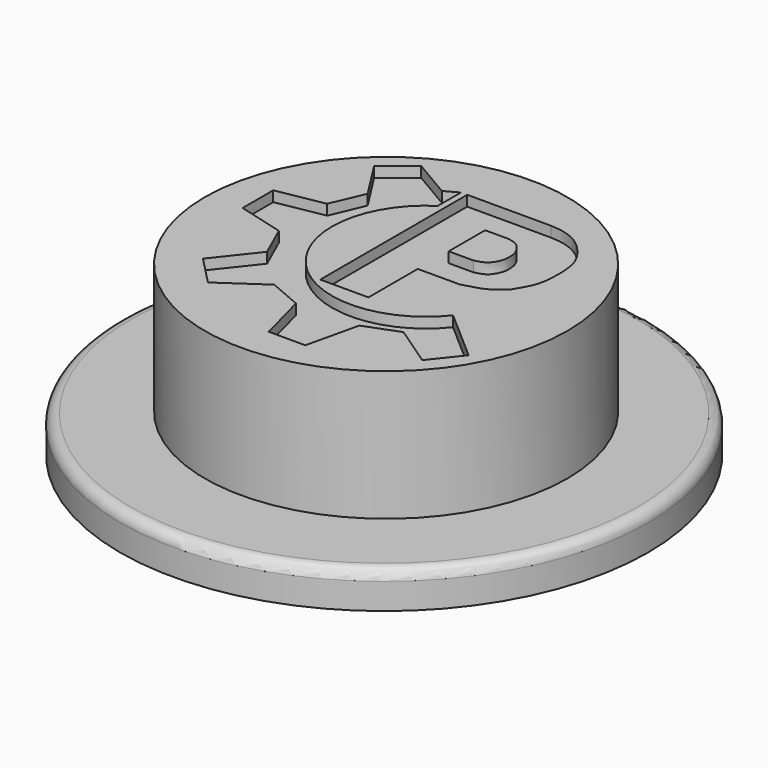
from build123d import *

# Parameters (mm, degrees)
F0_R     = 32.004
F1_DEPTH = 4.445
F2_R     = 21.971
F3_DEPTH = 15.748
F4_R     = 1.27
F6_DEPTH = 1.27
F8_DEPTH = 0.508


with BuildPart() as f1:
    # F0 (on Top) → F1 (new body)
    with BuildSketch(Plane.XY):
        with Locations((0.0734815403, -0.3912560351)):
            Circle(F0_R)
    extrude(amount=F1_DEPTH)

    # F2 (on face) → F3 (join)
    with BuildSketch(Plane.XY.offset(4.445)):
        Circle(F2_R)
    extrude(amount=F3_DEPTH)

    # F4
    f4_edges = [f1.edges().sort_by_distance(p)[0] for p in [
        (-31.930518, -0.391256, 4.445),
    ]]
    fillet(f4_edges, radius=F4_R)

    # F5 (on face) → F6 (cut)
    with BuildSketch(Plane.XY.offset(20.193)):
        with BuildLine():
            ThreePointArc((11.5169007331, -4.2504528537), (-5.8335664103, -4.8630391768), (-3.625406418, 12.3572396114))
            Line((-3.625406418, 12.3572396114), (-3.625406418, 15.8741623163))
            Line((-3.625406418, 15.8741623163), (-5.2373292856, 14.9949323386))
            Line((-5.2373292856, 14.9949323386), (-9.9754063413, 17.78))
            Line((-9.9754063413, 17.78), (-13.4434830397, 14.9949323386))
            Line((-13.4434830397, 14.9949323386), (-10.3661753237, 10.1591628045))
            Line((-10.3661753237, 10.1591628045), (-12.0757911354, 6.153778173))
            Line((-12.0757911354, 6.153778173), (-17.78, 5.1280092448))
            Line((-17.78, 5.1280092448), (-17.78, 0.4876240855))
            Line((-17.78, 0.4876240855), (-12.1734831482, -1.0266067693))
            Line((-12.1734831482, -1.0266067693), (-10.3661753237, -5.0808377564))
            Line((-10.3661753237, -5.0808377564), (-14.225021936, -9.9654532969))
            Line((-14.225021936, -9.9654532969), (-10.8057912439, -13.4823769331))
            Line((-10.8057912439, -13.4823769331), (-5.6280987337, -9.9166072905))
            Line((-5.6280987337, -9.9166072905), (-1.6227141023, -11.6262231022))
            Line((-1.6227141023, -11.6262231022), (0, -17.78))
            Line((0, -17.78), (4.4342088513, -17.78))
            Line((4.4342088513, -17.78), (5.8995936997, -11.4308381453))
            Line((5.8995936997, -11.4308381453), (10.0026708096, -9.8677603528))
            Line((10.0026708096, -9.8677603528), (14.9849783629, -13.2381459698))
            Line((14.9849783629, -13.2381459698), (17.78, -9.7212223336))
            Line((17.78, -9.7212223336), (11.5169007331, -4.2504528537))
        make_face()
        with BuildLine():
            add(Edge.make_bspline(
                [(7.2628180496, 15.8830489963), (7.764120513, 15.8547054313), (8.7931376229, 15.7965249604), (10.4249300167, 15.2148196487), (11.8099126054, 14.2323930058), (13.1704291206, 12.5947806565), (14.0438131033, 10.7817202185), (14.1201673867, 7.3393260802), (13.7194691328, 5.5139226252), (13.0765966002, 4.3745110609), (12.4961633849, 3.1101795931), (10.8585799754, 2.0034232369), (10.0201954446, 1.6327368317), (8.7603057074, 1.291574238), (8.0080404878, 1.0878700996)],
                knots=[0, 0, 0, 0, 0.0772193353, 0.1585071351, 0.2400871058, 0.3296102404, 0.4189216979, 0.5342087706, 0.6199032215, 0.6892989221, 0.7632939871, 0.8489473746, 0.9098082689, 1, 1, 1, 1], degree=3))
            Line((7.2628180496, 15.8830489963), (-2.8727587778, 15.8830489963))
            Line((-2.8727587778, 15.8830489963), (-2.8727587778, -6.3826409169))
            Line((-2.8727587778, -6.3826409169), (2.9688859358, -6.3826409169))
            Line((2.9688859358, -6.3826409169), (2.9688859358, 1.0878700996))
            Line((2.9688859358, 1.0878700996), (8.0080404878, 1.0878700996))
        make_face()
        with BuildLine():
            Line((2.9969443567, 11.2640913576), (5.9029692784, 11.2640913576))
            add(Edge.make_bspline(
                [(5.9029692784, 11.2640913576), (6.311247704, 11.169172309), (7.117729351, 10.9816765566), (7.8395571972, 9.97335199), (8.1597875123, 9.2817549766), (8.2415328063, 8.4012900963), (8.2114096294, 7.6759192789), (7.7218664719, 6.5872887351), (7.0554159923, 6.0180518678), (6.3806756136, 5.8354795836), (6.0261930339, 5.7395631447)],
                knots=[0, 0, 0, 0, 0.14072062, 0.2779686368, 0.3897367685, 0.5061439342, 0.6157367861, 0.751736381, 0.8695718667, 1, 1, 1, 1], degree=3))
            Line((6.0261930339, 5.7395631447), (2.9969443567, 5.7395631447))
            Line((2.9969443567, 5.7395631447), (2.9969443567, 11.2640913576))
        make_face(mode=Mode.SUBTRACT)
    extrude(amount=-F6_DEPTH, mode=Mode.SUBTRACT)

    # F7 (on face) → F8 (cut)
    with BuildSketch(Plane(origin=(0, 0, 0), x_dir=(1, 0, 0), z_dir=(0, 0, -1))):
        with BuildLine():
            ThreePointArc((11.3601768389, 1.597710303), (20.1967129552, 12.4455869556), (10.6863165274, 22.7078069001))
            Line((10.6863165274, 22.7078069001), (-3.9929486811, 22.7078069001))
            Line((-3.9929486811, 22.7078069001), (-3.9929486811, -9.0245176107))
            Line((-3.9929486811, -9.0245176107), (4.2410902679, -9.0245176107))
            Line((4.2410902679, -9.0245176107), (4.2410902679, 1.597710303))
            Line((4.2410902679, 1.597710303), (11.3601768389, 1.597710303))
        make_face()
        with BuildLine():
            Line((4.2392467149, 16.0716325045), (8.5572467149, 16.0716325045))
            ThreePointArc((8.5572467149, 16.0716325045), (11.67463885, 12.1071133763), (8.5572467149, 8.1425942481))
            Line((8.5572467149, 8.1425942481), (4.2392467149, 8.1425942481))
            Line((4.2392467149, 8.1425942481), (4.2392467149, 16.0716325045))
        make_face(mode=Mode.SUBTRACT)
        with BuildLine():
            ThreePointArc((16.6819114238, -6.0063162819), (-8.4387461135, -7.4533040262), (-5.2131637931, 17.5013914704))
            Line((-5.2131637931, 17.5013914704), (-5.2131637931, 22.5260201842))
            Line((-5.2131637931, 22.5260201842), (-7.6528675854, 21.0447721183))
            Line((-7.6528675854, 21.0447721183), (-14.565362595, 25.4))
            Line((-14.565362595, 25.4), (-19.0091095865, 21.5094778687))
            Line((-19.0091095865, 21.5094778687), (-14.6524952725, 14.190364629))
            Line((-14.6524952725, 14.190364629), (-17.2083750367, 8.4396339953))
            Line((-17.2083750367, 8.4396339953), (-25.4, 7.1616931818))
            Line((-25.4, 7.1616931818), (-25.4, 0.6350930198))
            Line((-25.4, 0.6350930198), (-17.2410104424, -1.336485846))
            Line((-17.2410104424, -1.336485846), (-14.6524952725, -7.1198018268))
            Line((-14.6524952725, -7.1198018268), (-20.1845727861, -14.2024941742))
            Line((-20.1845727861, -14.2024941742), (-15.4662290588, -18.9843121916))
            Line((-15.4662290588, -18.9843121916), (-7.9194987193, -14.0996957198))
            Line((-7.9194987193, -14.0996957198), (-2.2044987418, -16.6396964341))
            Line((-2.2044987418, -16.6396964341), (0, -25.4))
            Line((0, -25.4), (6.3412087038, -25.4))
            Line((6.3412087038, -25.4), (8.3538619801, -16.2688288838))
            Line((8.3538619801, -16.2688288838), (14.0649145469, -14.0794068575))
            Line((14.0649145469, -14.0794068575), (21.5155947953, -18.9242325723))
            Line((21.5155947953, -18.9242325723), (25.1302085817, -13.9663480222))
            Line((25.1302085817, -13.9663480222), (16.6819114238, -6.0063162819))
        make_face()
        with BuildLine():
            ThreePointArc((16.6819114238, -6.0063162819), (-8.4387461135, -7.4533040262), (-5.2131637931, 17.5013914704))
            Line((-5.2131637931, 17.5013914704), (-5.2131637931, 22.5260201842))
            Line((-5.2131637931, 22.5260201842), (-7.6528675854, 21.0447721183))
            Line((-7.6528675854, 21.0447721183), (-14.565362595, 25.4))
            Line((-14.565362595, 25.4), (-19.0091095865, 21.5094778687))
            Line((-19.0091095865, 21.5094778687), (-14.6524952725, 14.190364629))
            Line((-14.6524952725, 14.190364629), (-17.2083750367, 8.4396339953))
            Line((-17.2083750367, 8.4396339953), (-25.4, 7.1616931818))
            Line((-25.4, 7.1616931818), (-25.4, 0.6350930198))
            Line((-25.4, 0.6350930198), (-17.2410104424, -1.336485846))
            Line((-17.2410104424, -1.336485846), (-14.6524952725, -7.1198018268))
            Line((-14.6524952725, -7.1198018268), (-20.1845727861, -14.2024941742))
            Line((-20.1845727861, -14.2024941742), (-15.4662290588, -18.9843121916))
            Line((-15.4662290588, -18.9843121916), (-7.9194987193, -14.0996957198))
            Line((-7.9194987193, -14.0996957198), (-2.2044987418, -16.6396964341))
            Line((-2.2044987418, -16.6396964341), (0, -25.4))
            Line((0, -25.4), (6.3412087038, -25.4))
            Line((6.3412087038, -25.4), (8.3538619801, -16.2688288838))
            Line((8.3538619801, -16.2688288838), (14.0649145469, -14.0794068575))
            Line((14.0649145469, -14.0794068575), (21.5155947953, -18.9242325723))
            Line((21.5155947953, -18.9242325723), (25.1302085817, -13.9663480222))
            Line((25.1302085817, -13.9663480222), (16.6819114238, -6.0063162819))
        make_face()
        with BuildLine():
            ThreePointArc((11.3601768389, 1.597710303), (20.1967129552, 12.4455869556), (10.6863165274, 22.7078069001))
            Line((10.6863165274, 22.7078069001), (-3.9929486811, 22.7078069001))
            Line((-3.9929486811, 22.7078069001), (-3.9929486811, -9.0245176107))
            Line((-3.9929486811, -9.0245176107), (4.2410902679, -9.0245176107))
            Line((4.2410902679, -9.0245176107), (4.2410902679, 1.597710303))
            Line((4.2410902679, 1.597710303), (11.3601768389, 1.597710303))
        make_face()
        with BuildLine():
            Line((4.2392467149, 16.0716325045), (8.5572467149, 16.0716325045))
            ThreePointArc((8.5572467149, 16.0716325045), (11.67463885, 12.1071133763), (8.5572467149, 8.1425942481))
            Line((8.5572467149, 8.1425942481), (4.2392467149, 8.1425942481))
            Line((4.2392467149, 8.1425942481), (4.2392467149, 16.0716325045))
        make_face(mode=Mode.SUBTRACT)
    extrude(amount=-F8_DEPTH, mode=Mode.SUBTRACT)


solid = f1.part
